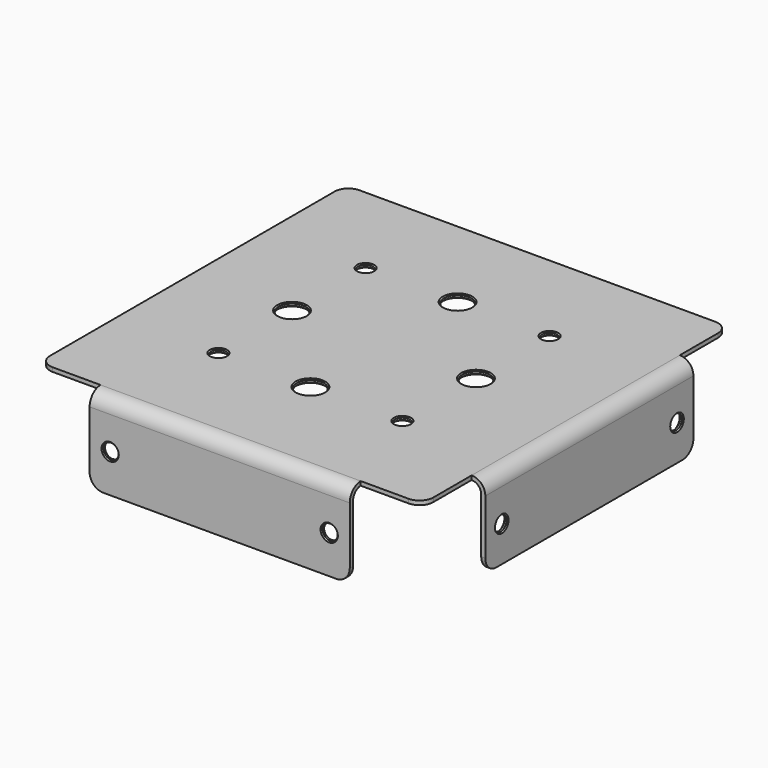
from build123d import *

# Parameters (mm, degrees)
F0_W      = 5
F0_H      = 95
F0_W_2    = 95
F0_H_2    = 5
F1_DEPTH  = 1.5
F2_R      = 2.75
F2_R_2    = 5
F3_DEPTH  = 1.501
F4_R      = 5
F6_W      = 95
F6_H      = 31
F6_R      = 2.75
F7_DEPTH  = 1.5
F9_W      = 95
F9_H      = 30
F9_R      = 2.7
F10_DEPTH = 1.5
F11_R     = 5
F12_R     = 3.5
F13_R     = 5
F14_SIZE  = 0.4
F15_SIZE  = 0.4


with BuildPart() as f1:
    # F0 (on Top) → F1 (new body)
    with BuildSketch(Plane.XY):
        Polygon((70, 70), (-70, 70), (-70, -70), (-47.5, -70), (47.5, -70), (70, -70), (70, -47.5), (70, 47.5), align=None)
        with Locations((72.5, 0)):
            Rectangle(F0_W, F0_H)
        with Locations((0, -72.5)):
            Rectangle(F0_W_2, F0_H_2)
    extrude(amount=F1_DEPTH)

    # F2 (on face) → F3 (cut, through all)
    with BuildSketch(Plane.XY.offset(1.5)):
        with Locations((-33.5875721064, -33.5875721064)):
            Circle(F2_R)
        with Locations((33.5875721064, -33.5875721064)):
            Circle(F2_R)
        with Locations((-33.5875721064, 33.5875721064)):
            Circle(F2_R)
        with Locations((33.5875721064, 33.5875721064)):
            Circle(F2_R)
        with Locations((0, -33.5875721064)):
            Circle(F2_R_2)
        with Locations((33.5875721064, 0)):
            Circle(F2_R_2)
        with Locations((-33.5875721064, 0)):
            Circle(F2_R_2)
        with Locations((0, 33.5875721064)):
            Circle(F2_R_2)
    extrude(amount=-F3_DEPTH, mode=Mode.SUBTRACT)

    # F4
    f4_edges = [f1.edges().sort_by_distance(p)[0] for p in [
        (70, -70, 0.75),
        (-70, -70, 0.75),
        (70, 70, 0.75),
        (-70, 70, 0.75),
    ]]
    fillet(f4_edges, radius=F4_R)

    # F6 (on 3pt) → F7 (join)
    with BuildSketch(Plane.XZ.offset(75)):
        with Locations((0, -14)):
            Rectangle(F6_W, F6_H)
        with Locations((-40, -15.5)):
            Circle(F6_R, mode=Mode.SUBTRACT)
        with Locations((40, -15.5)):
            Circle(F6_R, mode=Mode.SUBTRACT)
    extrude(amount=-F7_DEPTH)

    # F9 (on 3pt) → F10 (join)
    with BuildSketch(Plane(origin=(75, 0, 0), x_dir=(0, -1, 0), z_dir=(-1, 0, 0))):
        with Locations((0, -13.5)):
            Rectangle(F9_W, F9_H)
        with Locations((-40, -15.5)):
            Circle(F9_R, mode=Mode.SUBTRACT)
        with Locations((40, -15.5)):
            Circle(F9_R, mode=Mode.SUBTRACT)
    extrude(amount=F10_DEPTH)

    # F11
    f11_edges = [f1.edges().sort_by_distance(p)[0] for p in [
        (75, 0, 1.5),
        (0, -75, 1.5),
    ]]
    fillet(f11_edges, radius=F11_R)

    # F12
    f12_edges = [f1.edges().sort_by_distance(p)[0] for p in [
        (73.5, 0, 0),
        (0, -73.5, 0),
    ]]
    fillet(f12_edges, radius=F12_R)

    # F13
    f13_edges = [f1.edges().sort_by_distance(p)[0] for p in [
        (74.25, -47.5, -28.5),
        (47.5, -74.25, -29.5),
        (74.25, 47.5, -28.5),
        (-47.5, -74.25, -29.5),
    ]]
    fillet(f13_edges, radius=F13_R)

    # F14
    f14_edges = [f1.edges().sort_by_distance(p)[0] for p in [
        (-5, -33.587572, 1.5),
        (5, -33.587572, 0.75),
        (-5, -33.587572, 0),
        (-38.587572, 0, 1.5),
        (-28.587572, 0, 0.75),
        (-38.587572, 0, 0),
        (-36.337572, -33.587572, 1.5),
        (-30.837572, -33.587572, 0.75),
        (-36.337572, -33.587572, 0),
        (30.837572, -33.587572, 1.5),
        (36.337572, -33.587572, 0.75),
        (30.837572, -33.587572, 0),
        (28.587572, 0, 1.5),
        (38.587572, 0, 0.75),
        (28.587572, 0, 0),
        (-5, 33.587572, 1.5),
        (5, 33.587572, 0.75),
        (-5, 33.587572, 0),
        (-36.337572, 33.587572, 1.5),
        (-30.837572, 33.587572, 0.75),
        (-36.337572, 33.587572, 0),
        (30.837572, 33.587572, 1.5),
        (36.337572, 33.587572, 0.75),
        (30.837572, 33.587572, 0),
    ]]
    chamfer(f14_edges, length=F14_SIZE)

    # F15
    f15_edges = [f1.edges().sort_by_distance(p)[0] for p in [
        (42.75, -74.25, -15.5),
        (37.25, -75, -15.5),
        (37.25, -73.5, -15.5),
        (-37.25, -74.25, -15.5),
        (-42.75, -75, -15.5),
        (-42.75, -73.5, -15.5),
        (74.25, -42.7, -15.5),
        (75, -37.3, -15.5),
        (73.5, -37.3, -15.5),
        (74.25, 37.3, -15.5),
        (75, 42.7, -15.5),
        (73.5, 42.7, -15.5),
    ]]
    chamfer(f15_edges, length=F15_SIZE)


solid = f1.part
